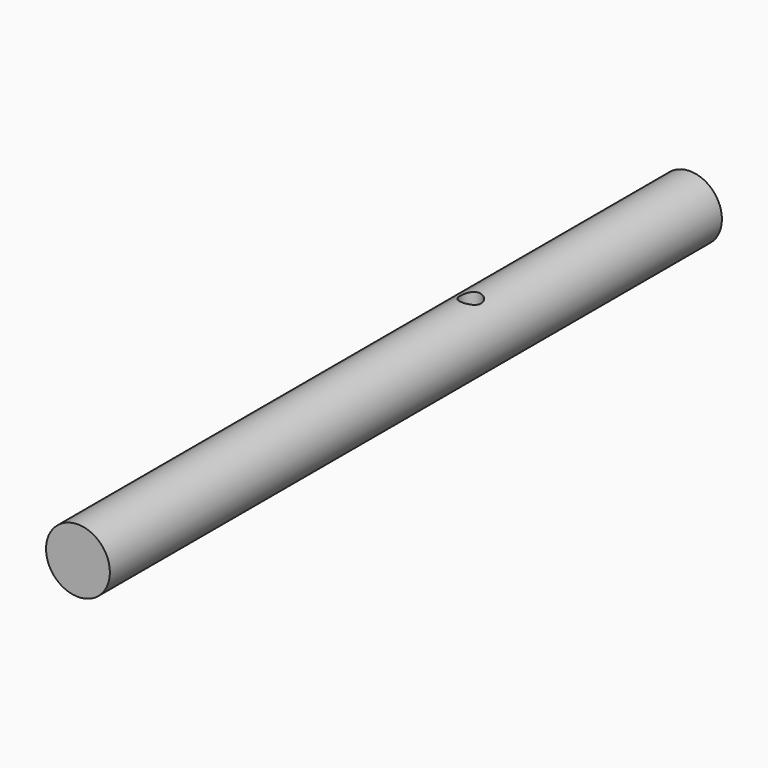
from build123d import *

# Parameters (mm, degrees)
F0_R     = 6.096
F1_DEPTH = 146.05
F2_R     = 1.9939
F3_DEPTH = 12.7


with BuildPart() as f1:
    # F0 (on Front) → F1 (new body)
    with BuildSketch(Plane.XZ):
        Circle(F0_R)
    extrude(amount=F1_DEPTH)

    # F2 (on Top) → F3 (cut, symmetric)
    with BuildSketch(Plane.XY):
        with Locations((0, -52.324)):
            Circle(F2_R)
    extrude(amount=F3_DEPTH, both=True, mode=Mode.SUBTRACT)


solid = f1.part
